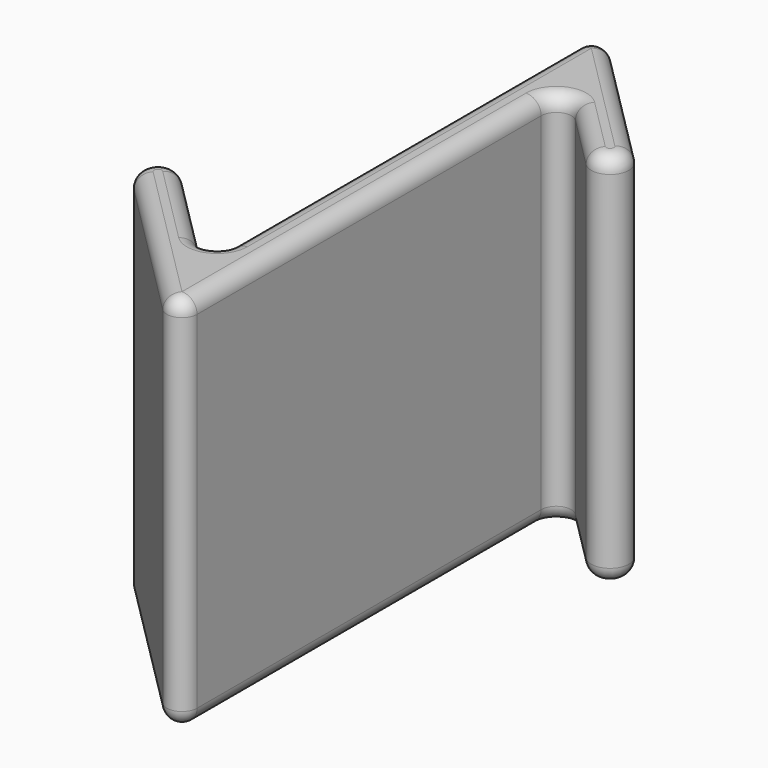
from build123d import *

# Parameters (mm, degrees)
PAD_DEPTH   = 50
FILLET_R    = 2
FILLET001_R = 2


with BuildPart() as part:
    # Sketch → Pad (new body)
    with BuildSketch(Plane.XY):
        with BuildLine():
            Line((0, 0), (0, 37.071068))
            ThreePointArc((3.414214, 38.485281), (1.234633, 38.918827), (0, 37.071068))
            Line((3.414214, 38.485281), (10.485281, 31.414214))
            ThreePointArc((10.485281, 31.414214), (14.020815, 31.414214), (14.020815, 34.949747))
            Line((14.020815, 34.949747), (-1.585786, 50.556349))
            ThreePointArc((-1.585786, 50.556349), (-3.765367, 50.989895), (-5, 49.142136))
            Line((-5, 49.142136), (-5, -7.928932))
            ThreePointArc((-8.414214, -9.343146), (-6.234633, -9.776691), (-5, -7.928932))
            Line((-8.414214, -9.343146), (-19.020815, 1.263456))
            ThreePointArc((-19.020815, 1.263456), (-22.556351, 1.263462), (-22.556353, -2.272074))
            Line((-22.556353, -2.272074), (-3.414214, -21.414214))
            ThreePointArc((-3.414214, -21.414214), (-1.234633, -21.847759), (0, -20))
            Line((0, -20), (0, 0))
        make_face()
    extrude(amount=PAD_DEPTH)

    # Fillet
    fillet_edges = [part.edges().sort_by_distance(p)[0] for p in [
        (-13.717514, -4.039845, 50),
        (-22.556351, 1.263462, 50),
        (-12.985283, -11.843144, 50),
        (-1.234633, -21.847759, 50),
        (0, -10, 50),
        (0, 18.535534, 50),
        (1.234633, 38.918827, 50),
        (6.949747, 34.949747, 50),
        (14.020815, 31.414214, 50),
        (6.217514, 42.753048, 50),
        (-3.765367, 50.989895, 50),
        (-5, 20.606602, 50),
        (-6.234633, -9.776691, 50),
    ]]
    fillet(fillet_edges, radius=FILLET_R)

    # Fillet001
    fillet001_edges = [part.edges().sort_by_distance(p)[0] for p in [
        (-13.717514, -4.039845, 0),
        (-22.556351, 1.263462, 0),
        (-12.985283, -11.843144, 0),
        (-1.234633, -21.847759, 0),
        (0, -10, 0),
        (0, 18.535534, 0),
        (1.234633, 38.918827, 0),
        (6.949747, 34.949747, 0),
        (14.020815, 31.414214, 0),
        (6.217514, 42.753048, 0),
        (-3.765367, 50.989895, 0),
        (-5, 20.606602, 0),
        (-6.234633, -9.776691, 0),
    ]]
    fillet(fillet001_edges, radius=FILLET001_R)


solid = part.part
